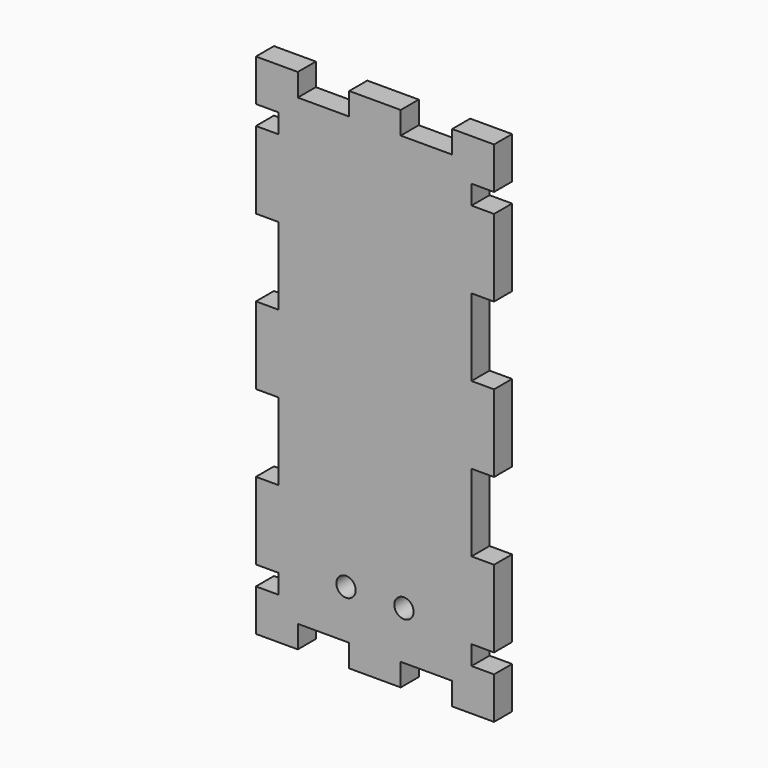
from build123d import *

# Parameters (mm, degrees)
F0_R     = 2.5
F0_W     = 13.333334
F0_H     = 5.842
F0_W_2   = 5.842
F0_H_2   = 20
F1_DEPTH = 5.842


with BuildPart() as f1:
    # F0 (on Front) → F1 (new body)
    with BuildSketch(Plane.XZ):
        Polygon((-25, 55), (-25, 60), (-20, 60), (-20, 65.842), (-30.842, 65.842), (-30.842, 55), align=None)
        Polygon((-20, 60), (-25, 60), (-25, 55), (-25, 50), (-25, 30), (-25, 10), (-25, -10), (-25, -30), (-25, -50), (-25, -55), (-25, -60), (-20, -60), (-6.666667, -60), (6.666667, -60), (20, -60), (25, -60), (25, -55), (25, -50), (25, -30), (25, -10), (25, 10), (25, 30), (25, 50), (25, 55), (25, 60), (20, 60), (6.666667, 60), (-6.666667, 60), align=None)
        with Locations((-7.5, -47.5)):
            Circle(F0_R, mode=Mode.SUBTRACT)
        with Locations((7.5, -47.5)):
            Circle(F0_R, mode=Mode.SUBTRACT)
        with Locations((0, 62.921)):
            Rectangle(F0_W, F0_H)
        with Locations((-27.921, 40)):
            Rectangle(F0_W_2, F0_H_2)
        Polygon((20, 65.842), (20, 60), (25, 60), (25, 55), (30.842, 55), (30.842, 65.842), align=None)
        with Locations((-27.921, 0)):
            Rectangle(F0_W_2, F0_H_2)
        with Locations((-27.921, -40)):
            Rectangle(F0_W_2, F0_H_2)
        with Locations((27.921, 40)):
            Rectangle(F0_W_2, F0_H_2)
        Polygon((-25, -60), (-25, -55), (-30.842, -55), (-30.842, -65.842), (-20, -65.842), (-20, -60), align=None)
        with Locations((27.921, 0)):
            Rectangle(F0_W_2, F0_H_2)
        with Locations((27.921, -40)):
            Rectangle(F0_W_2, F0_H_2)
        with Locations((0, -62.921)):
            Rectangle(F0_W, F0_H)
        Polygon((30.842, -55), (25, -55), (25, -60), (20, -60), (20, -65.842), (30.842, -65.842), align=None)
    extrude(amount=F1_DEPTH)


solid = f1.part
